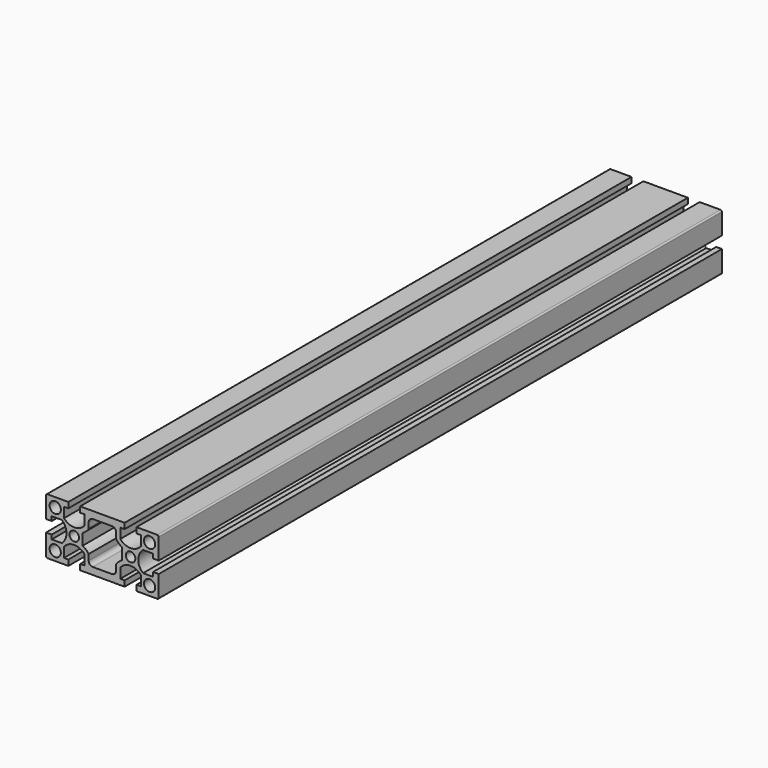
from build123d import *

# Parameters (mm, degrees)
F1_W          = 80
F1_H          = 40
F2_DEPTH      = 250
F3_R          = 4
F3_R_2        = 3.4
F4_DEPTH      = 250.001
F4_DEPTH_BACK = 250.001
F6_DEPTH      = 250.001
F6_DEPTH_BACK = 250.001
F8_DEPTH      = 250.001
F8_DEPTH_BACK = 250.001
F9_R          = 1


with BuildPart() as f2:
    # F1 (on Front) → F2 (new body, symmetric)
    with BuildSketch(Plane.XZ):
        Rectangle(F1_W, F1_H)
    extrude(amount=F2_DEPTH, both=True)

    # F3 (on Front) → F4 (cut, two sides)
    with BuildSketch(Plane.XZ) as f4_sk:
        with Locations((-33.5, 13.5)):
            Circle(F3_R)
        with Locations((-33.5, -13.5)):
            Circle(F3_R)
        with Locations((33.5, -13.5)):
            Circle(F3_R)
        with Locations((33.5, 13.5)):
            Circle(F3_R)
        with Locations((-20, 0)):
            Circle(F3_R_2)
        with Locations((20, 0)):
            Circle(F3_R_2)
    extrude(amount=-F4_DEPTH, mode=Mode.SUBTRACT)
    extrude(f4_sk.sketch, amount=F4_DEPTH_BACK, mode=Mode.SUBTRACT)

    # F5 (on Front) → F6 (cut, two sides)
    with BuildSketch(Plane.XZ) as f6_sk:
        with BuildLine():
            Line((-15.8, 20), (-24.2, 20))
            Line((-24.2, 20), (-24.2, 16))
            Line((-24.2, 16), (-27.25, 16))
            Line((-27.25, 16), (-27.25, 8.8609854211))
            ThreePointArc((-27.25, 8.8609854211), (-20, 5.5), (-12.75, 8.8609854211))
            Line((-12.75, 8.8609854211), (-12.75, 16))
            Line((-12.75, 16), (-15.8, 16))
            Line((-15.8, 16), (-15.8, 20))
        make_face()
        with BuildLine():
            Line((-40, 4.2), (-40, -4.2))
            Line((-40, -4.2), (-36, -4.2))
            Line((-36, -4.2), (-36, -7.25))
            Line((-36, -7.25), (-28.8609854211, -7.25))
            ThreePointArc((-28.8609854211, -7.25), (-25.5, 0), (-28.8609854211, 7.25))
            Line((-28.8609854211, 7.25), (-36, 7.25))
            Line((-36, 7.25), (-36, 4.2))
            Line((-36, 4.2), (-40, 4.2))
        make_face()
        with BuildLine():
            Line((-24.2, -20), (-15.8, -20))
            Line((-15.8, -20), (-15.8, -16))
            Line((-15.8, -16), (-12.75, -16))
            Line((-12.75, -16), (-12.75, -8.8609854211))
            ThreePointArc((-12.75, -8.8609854211), (-20, -5.5), (-27.25, -8.8609854211))
            Line((-27.25, -8.8609854211), (-27.25, -16))
            Line((-27.25, -16), (-24.2, -16))
            Line((-24.2, -16), (-24.2, -20))
        make_face()
        with BuildLine():
            ThreePointArc((27.25, -8.8609854211), (20, -5.5), (12.75, -8.8609854211))
            Line((12.75, -8.8609854211), (12.75, -16))
            Line((12.75, -16), (15.8, -16))
            Line((15.8, -16), (15.8, -20))
            Line((15.8, -20), (24.2, -20))
            Line((24.2, -20), (24.2, -16))
            Line((24.2, -16), (27.25, -16))
            Line((27.25, -16), (27.25, -8.8609854211))
        make_face()
        with BuildLine():
            Line((36, -4.2), (40, -4.2))
            Line((40, -4.2), (40, 4.2))
            Line((40, 4.2), (36, 4.2))
            Line((36, 4.2), (36, 7.25))
            Line((36, 7.25), (28.8609854211, 7.25))
            ThreePointArc((28.8609854211, 7.25), (25.5, 0), (28.8609854211, -7.25))
            Line((28.8609854211, -7.25), (36, -7.25))
            Line((36, -7.25), (36, -4.2))
        make_face()
        with BuildLine():
            Line((15.8, 16), (12.75, 16))
            Line((12.75, 16), (12.75, 8.8609854211))
            ThreePointArc((12.75, 8.8609854211), (20, 5.5), (27.25, 8.8609854211))
            Line((27.25, 8.8609854211), (27.25, 16))
            Line((27.25, 16), (24.2, 16))
            Line((24.2, 16), (24.2, 20))
            Line((24.2, 20), (15.8, 20))
            Line((15.8, 20), (15.8, 16))
        make_face()
    extrude(amount=-F6_DEPTH, mode=Mode.SUBTRACT)
    extrude(f6_sk.sketch, amount=F6_DEPTH_BACK, mode=Mode.SUBTRACT)

    # F7 (on Front) → F8 (cut, two sides)
    with BuildSketch(Plane.XZ) as f8_sk:
        with BuildLine():
            Line((6.75, 15), (-6.75, 15))
            ThreePointArc((-6.75, 15), (-8.8713203436, 14.1213203436), (-9.75, 12))
            Line((-9.75, 12), (-9.75, 7.8454559894))
            ThreePointArc((-9.75, 7.8454559894), (-11.6545131981, 5.6939347714), (-14, 4.0341439003))
            Line((-14, 4.0341439003), (-14, -4.0341439003))
            ThreePointArc((-14, -4.0341439003), (-11.6545131981, -5.6939347714), (-9.75, -7.8454559894))
            Line((-9.75, -7.8454559894), (-9.75, -12))
            ThreePointArc((-9.75, -12), (-8.8713203436, -14.1213203436), (-6.75, -15))
            Line((-6.75, -15), (6.75, -15))
            ThreePointArc((6.75, -15), (8.8713203436, -14.1213203436), (9.75, -12))
            Line((9.75, -12), (9.75, -7.8454559894))
            ThreePointArc((9.75, -7.8454559894), (11.6545131981, -5.6939347714), (14, -4.0341439003))
            Line((14, -4.0341439003), (14, 4.0341439003))
            ThreePointArc((14, 4.0341439003), (11.6545131981, 5.6939347714), (9.75, 7.8454559894))
            Line((9.75, 7.8454559894), (9.75, 12))
            ThreePointArc((9.75, 12), (8.8713203436, 14.1213203436), (6.75, 15))
        make_face()
    extrude(amount=-F8_DEPTH, mode=Mode.SUBTRACT)
    extrude(f8_sk.sketch, amount=F8_DEPTH_BACK, mode=Mode.SUBTRACT)

    # F9
    f9_edges = [f2.edges().sort_by_distance(p)[0] for p in [
        (-40, 0, 20),
        (40, 0, 20),
        (40, 0, -20),
        (-40, 0, -20),
    ]]
    fillet(f9_edges, radius=F9_R)


solid = f2.part
